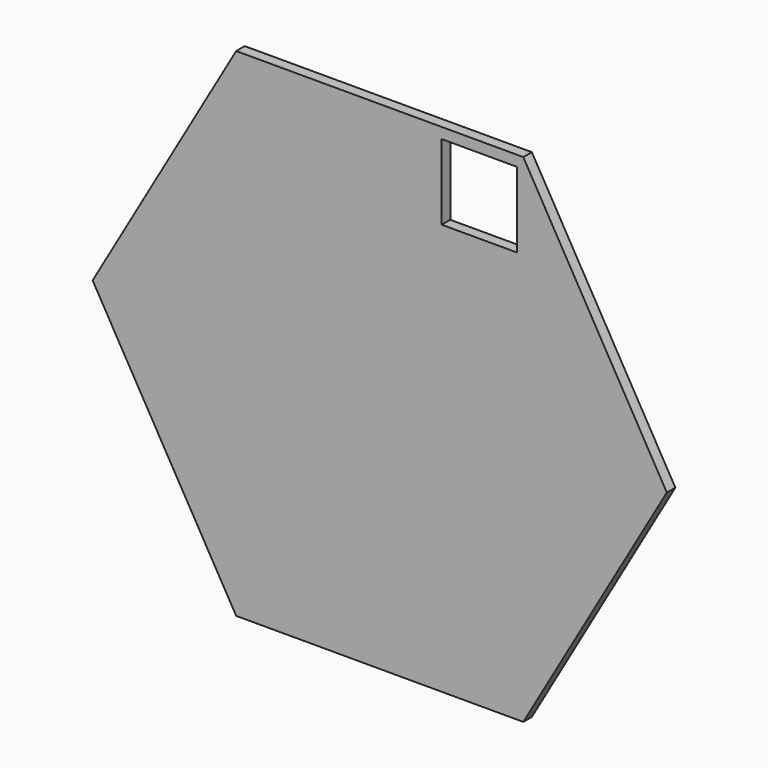
from build123d import *

# Parameters (mm, degrees)
F1_DEPTH = 17
F2_W     = 120
F2_H     = 120
F3_DEPTH = 17


with BuildPart() as f1:
    # F0 (on Front) → F1 (new body)
    with BuildSketch(Plane.XZ):
        Polygon((-228.5, -395.77361), (228.5, -395.77361), (457, 0), (228.5, 395.77361), (-228.5, 395.77361), (-457, 0), align=None)
    extrude(amount=F1_DEPTH)

    # F2 (on face) → F3 (cut)
    with BuildSketch(Plane(origin=(0, 0, 0), x_dir=(-1, 0, 0), z_dir=(0, 1, 0))):
        with Locations((-158.685045, 318.77361)):
            Rectangle(F2_W, F2_H)
    extrude(amount=-F3_DEPTH, mode=Mode.SUBTRACT)


solid = f1.part
